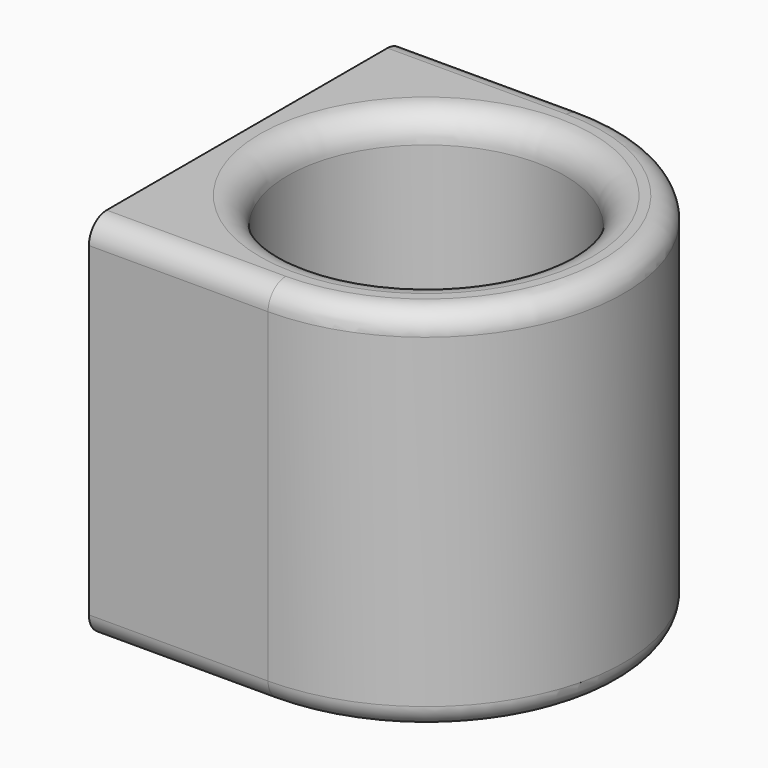
from build123d import *

# Parameters (mm, degrees)
F0_R     = 5.35
F0_R_2   = 3.75
F1_DEPTH = 10
F2_W     = 10.7
F2_H     = 10
F3_DEPTH = 4.75
F4_W     = 7.811706725
F4_H     = 10
F5_DEPTH = 25
F6_DEPTH = 25
F7_W     = 10.7
F7_H     = 10
F7_W_2   = 9.1
F7_H_2   = 8.4
F8_DEPTH = 0.1
F9_R     = 0.6
F10_R    = 0.75


with BuildPart() as f1:
    # F0 (on Top) → F1 (new body)
    with BuildSketch(Plane.XY):
        Circle(F0_R)
        Circle(F0_R_2, mode=Mode.SUBTRACT)
        Circle(F0_R_2)
    extrude(amount=F1_DEPTH)

    # F2 (on Right) → F3 (join)
    with BuildSketch(Plane.YZ):
        with Locations((0, 5)):
            Rectangle(F2_W, F2_H)
    extrude(amount=-F3_DEPTH)

    # F4 (on face) → F5 (cut)
    with BuildSketch(Plane(origin=(-4.75, 0, 0), x_dir=(0, -1, 0), z_dir=(-1, 0, 0))):
        with Locations((1.4441466375, 5)):
            Rectangle(F4_W, F4_H)
    extrude(amount=F5_DEPTH, mode=Mode.SUBTRACT)

    # F0 (on Top) → F6 (cut)
    with BuildSketch(Plane.XY):
        Circle(F0_R_2)
    extrude(amount=F6_DEPTH, mode=Mode.SUBTRACT)

    # F7 (on face) → F8 (join)
    with BuildSketch(Plane(origin=(-4.75, 0, 0), x_dir=(0, -1, 0), z_dir=(-1, 0, 0))):
        with Locations((0, 5)):
            Rectangle(F7_W, F7_H)
        with Locations((0, 5)):
            Rectangle(F7_W_2, F7_H_2, mode=Mode.SUBTRACT)
    extrude(amount=F8_DEPTH)

    # F9
    f9_edges = [f1.edges().sort_by_distance(p)[0] for p in [
        (-2.425, 5.35, 10),
        (-2.425, 5.35, 0),
        (-2.425, -5.35, 0),
        (-2.425, -5.35, 10),
        (-4.8, 4.55, 9.2),
        (-4.8, -4.55, 9.2),
        (-4.8, -4.55, 0.8),
        (-4.8, 4.55, 0.8),
    ]]
    fillet(f9_edges, radius=F9_R)

    # F10
    f10_edges = [f1.edges().sort_by_distance(p)[0] for p in [
        (-3.75, 0, 0),
        (-3.75, 0, 10),
    ]]
    fillet(f10_edges, radius=F10_R)


solid = f1.part
